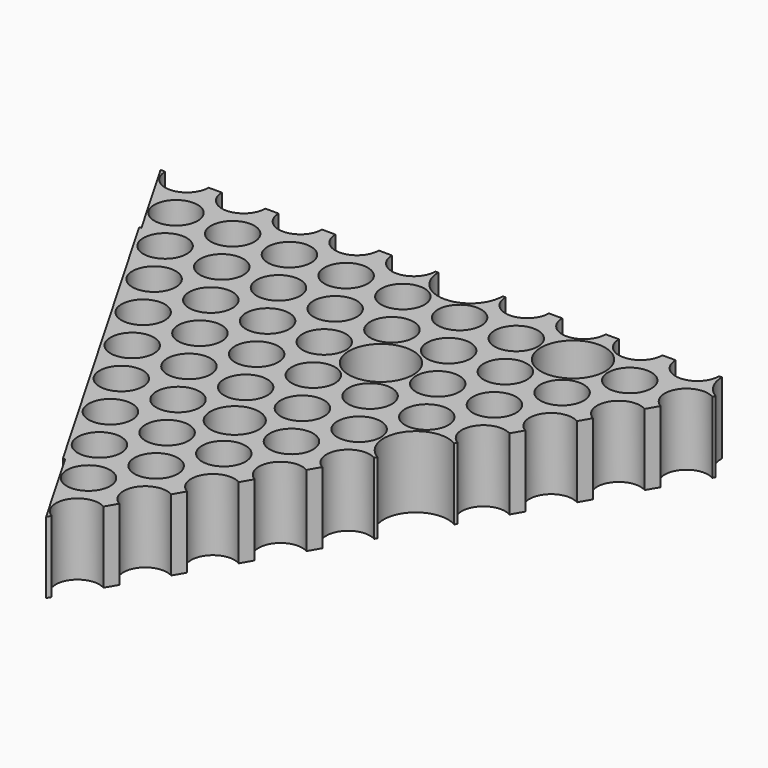
from build123d import *

# Parameters (mm, degrees)
F0_R     = 4.55
F0_R_2   = 5.099371
F0_R_3   = 6.75
F1_DEPTH = 15


with BuildPart() as f1:
    # F0 (on Top) → F1 (new body)
    with BuildSketch(Plane.XY):
        with BuildLine():
            Line((-114.5, -18.186533), (-73, -90.066642))
            Line((-73, -90.066642), (-72.65359, -89.866642))
            Line((-72.65359, -89.866642), (-62.26906, -107.853175))
            Line((-62.26906, -107.853175), (-61.775, -106.997439))
            ThreePointArc((-61.775, -106.997439), (-63.440416, -100.782023), (-57.225, -99.116607))
            Line((-57.225, -99.116607), (-55.825, -96.691736))
            ThreePointArc((-55.825, -96.691736), (-57.490416, -90.476321), (-51.275, -88.810905))
            Line((-51.275, -88.810905), (-49.875, -86.386034))
            ThreePointArc((-49.875, -86.386034), (-51.540416, -80.170618), (-45.325, -78.505203))
            Line((-45.325, -78.505203), (-43.925, -76.080332))
            ThreePointArc((-43.925, -76.080332), (-45.590416, -69.864916), (-39.375, -68.199501))
            Line((-39.375, -68.199501), (-37.975, -65.774629))
            ThreePointArc((-37.975, -65.774629), (-39.640416, -59.559214), (-33.425, -57.893798))
            Line((-33.425, -57.893798), (-33.125, -57.374183))
            ThreePointArc((-33.125, -57.374183), (-35.595671, -48.153512), (-26.375, -45.68284))
            Line((-26.375, -45.68284), (-26.075, -45.163225))
            ThreePointArc((-26.075, -45.163225), (-27.740416, -38.947809), (-21.525, -37.282394))
            Line((-21.525, -37.282394), (-20.125, -34.857523))
            ThreePointArc((-20.125, -34.857523), (-21.790416, -28.642107), (-15.575, -26.976691))
            Line((-15.575, -26.976691), (-14.175, -24.55182))
            ThreePointArc((-14.175, -24.55182), (-15.840416, -18.336405), (-9.625, -16.670989))
            Line((-9.625, -16.670989), (-8.225, -14.246118))
            ThreePointArc((-8.225, -14.246118), (-9.890416, -8.030702), (-3.675, -6.365287))
            Line((-3.675, -6.365287), (-3.375, -5.845671))
            ThreePointArc((-3.375, -5.845671), (-5.845671, -3.375), (-6.75, 0))
            Line((-6.75, 0), (-7.35, 0))
            ThreePointArc((-7.35, 0), (-11.9, -4.55), (-16.45, 0))
            Line((-16.45, 0), (-19.25, 0))
            ThreePointArc((-19.25, 0), (-23.8, -4.55), (-28.35, 0))
            Line((-28.35, 0), (-31.15, 0))
            ThreePointArc((-31.15, 0), (-35.7, -4.55), (-40.25, 0))
            Line((-40.25, 0), (-43.05, 0))
            ThreePointArc((-43.05, 0), (-47.6, -4.55), (-52.15, 0))
            Line((-52.15, 0), (-52.75, 0))
            ThreePointArc((-52.75, 0), (-59.5, -6.75), (-66.25, 0))
            Line((-66.25, 0), (-66.85, 0))
            ThreePointArc((-66.85, 0), (-71.4, -4.55), (-75.95, 0))
            Line((-75.95, 0), (-78.75, 0))
            ThreePointArc((-78.75, 0), (-83.3, -4.55), (-87.85, 0))
            Line((-87.85, 0), (-90.65, 0))
            ThreePointArc((-90.65, 0), (-95.2, -4.55), (-99.75, 0))
            Line((-99.75, 0), (-102.55, 0))
            ThreePointArc((-102.55, 0), (-107.1, -4.55), (-111.65, 0))
            Line((-111.65, 0), (-114.45, 0))
            ThreePointArc((-114.45, 0), (-119, -4.55), (-123.55, 0))
            Line((-123.55, 0), (-124.53812, 0))
            Line((-124.53812, 0), (-114.15359, -17.986533))
            Line((-114.15359, -17.986533), (-114.5, -18.186533))
        make_face()
        with Locations((-65.45, -92.751321)):
            Circle(F0_R, mode=Mode.SUBTRACT)
        with Locations((-71.4, -82.445618)):
            Circle(F0_R, mode=Mode.SUBTRACT)
        with Locations((-59.5, -82.445618)):
            Circle(F0_R, mode=Mode.SUBTRACT)
        with Locations((-77.35, -72.139916)):
            Circle(F0_R, mode=Mode.SUBTRACT)
        with Locations((-65.45, -72.139916)):
            Circle(F0_R, mode=Mode.SUBTRACT)
        with Locations((-83.3, -61.834214)):
            Circle(F0_R, mode=Mode.SUBTRACT)
        with Locations((-89.25, -51.528512)):
            Circle(F0_R, mode=Mode.SUBTRACT)
        with Locations((-77.35, -51.528512)):
            Circle(F0_R, mode=Mode.SUBTRACT)
        with Locations((-71.4, -61.834214)):
            Circle(F0_R, mode=Mode.SUBTRACT)
        with Locations((-59.5, -61.834214)):
            Circle(F0_R_2, mode=Mode.SUBTRACT)
        with Locations((-65.45, -51.528512)):
            Circle(F0_R, mode=Mode.SUBTRACT)
        with Locations((-53.55, -72.139916)):
            Circle(F0_R, mode=Mode.SUBTRACT)
        with Locations((-47.6, -61.834214)):
            Circle(F0_R, mode=Mode.SUBTRACT)
        with Locations((-53.55, -51.528512)):
            Circle(F0_R, mode=Mode.SUBTRACT)
        with Locations((-41.65, -51.528512)):
            Circle(F0_R, mode=Mode.SUBTRACT)
        with Locations((-95.2, -41.222809)):
            Circle(F0_R, mode=Mode.SUBTRACT)
        with Locations((-101.15, -30.917107)):
            Circle(F0_R, mode=Mode.SUBTRACT)
        with Locations((-83.3, -41.222809)):
            Circle(F0_R, mode=Mode.SUBTRACT)
        with Locations((-71.4, -41.222809)):
            Circle(F0_R, mode=Mode.SUBTRACT)
        with Locations((-59.5, -41.222809)):
            Circle(F0_R, mode=Mode.SUBTRACT)
        with Locations((-89.25, -30.917107)):
            Circle(F0_R, mode=Mode.SUBTRACT)
        with Locations((-77.35, -30.917107)):
            Circle(F0_R, mode=Mode.SUBTRACT)
        with Locations((-65.45, -30.917107)):
            Circle(F0_R, mode=Mode.SUBTRACT)
        with Locations((-113.05, -10.305702)):
            Circle(F0_R, mode=Mode.SUBTRACT)
        with Locations((-107.1, -20.611405)):
            Circle(F0_R, mode=Mode.SUBTRACT)
        with Locations((-95.2, -20.611405)):
            Circle(F0_R, mode=Mode.SUBTRACT)
        with Locations((-101.15, -10.305702)):
            Circle(F0_R, mode=Mode.SUBTRACT)
        with Locations((-83.3, -20.611405)):
            Circle(F0_R, mode=Mode.SUBTRACT)
        with Locations((-89.25, -10.305702)):
            Circle(F0_R, mode=Mode.SUBTRACT)
        with Locations((-77.35, -10.305702)):
            Circle(F0_R, mode=Mode.SUBTRACT)
        with Locations((-71.4, -20.611405)):
            Circle(F0_R, mode=Mode.SUBTRACT)
        with Locations((-59.5, -20.611405)):
            Circle(F0_R, mode=Mode.SUBTRACT)
        with Locations((-65.45, -10.305702)):
            Circle(F0_R, mode=Mode.SUBTRACT)
        with Locations((-47.6, -41.222809)):
            Circle(F0_R, mode=Mode.SUBTRACT)
        with Locations((-35.7, -41.222809)):
            Circle(F0_R, mode=Mode.SUBTRACT)
        with Locations((-53.55, -30.917107)):
            Circle(F0_R_3, mode=Mode.SUBTRACT)
        with Locations((-41.65, -30.917107)):
            Circle(F0_R, mode=Mode.SUBTRACT)
        with Locations((-29.75, -30.917107)):
            Circle(F0_R, mode=Mode.SUBTRACT)
        with Locations((-47.6, -20.611405)):
            Circle(F0_R, mode=Mode.SUBTRACT)
        with Locations((-53.55, -10.305702)):
            Circle(F0_R, mode=Mode.SUBTRACT)
        with Locations((-35.7, -20.611405)):
            Circle(F0_R, mode=Mode.SUBTRACT)
        with Locations((-41.65, -10.305702)):
            Circle(F0_R, mode=Mode.SUBTRACT)
        with Locations((-29.75, -10.305702)):
            Circle(F0_R_3, mode=Mode.SUBTRACT)
        with Locations((-23.8, -20.611405)):
            Circle(F0_R, mode=Mode.SUBTRACT)
        with Locations((-17.85, -10.305702)):
            Circle(F0_R, mode=Mode.SUBTRACT)
    extrude(amount=F1_DEPTH)


solid = f1.part
